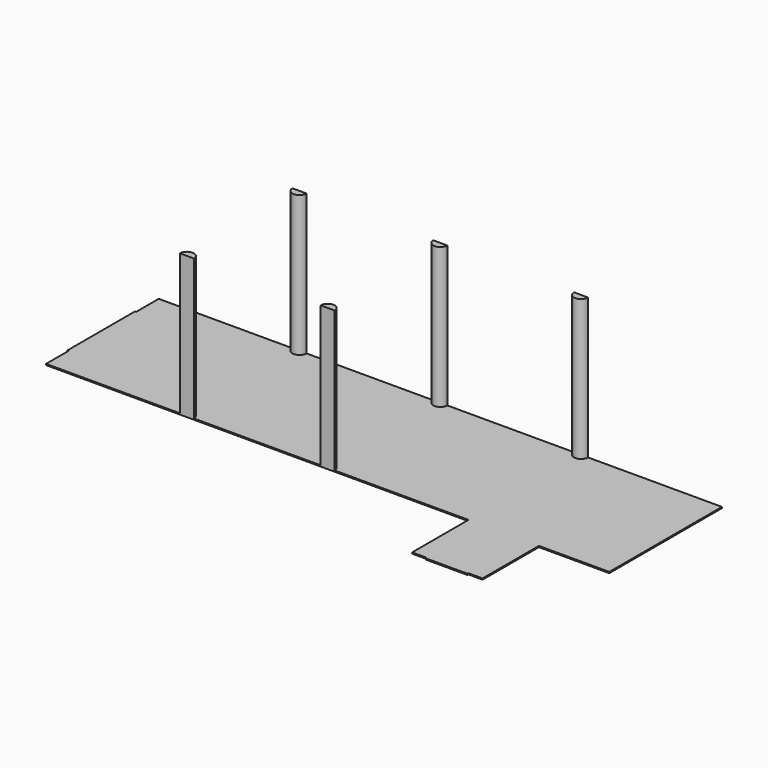
from build123d import *

# Parameters (mm, degrees)
F1_DEPTH = 25.4
F2_DEPTH = 3048
F3_W     = 914.4
F3_H     = 25.4
F4_DEPTH = 25.4
F5_W     = 1828.8
F5_H     = 25.4
F6_DEPTH = 25.4


with BuildPart() as f1:
    # F0 (on Top) → F1 (new body)
    with BuildSketch(Plane.XY):
        with BuildLine():
            Line((2895.6, 0), (0, 0))
            Line((0, 0), (0, -3048))
            Line((0, -3048), (2895.6, -3048))
            ThreePointArc((2895.6, -3048), (3048, -2895.6), (3200.4, -3048))
            Line((3200.4, -3048), (5943.6, -3048))
            ThreePointArc((5943.6, -3048), (6096, -2895.6), (6248.4, -3048))
            Line((6248.4, -3048), (9144, -3048))
            Line((9144, -3048), (9144, -4572))
            Line((9144, -4572), (10668, -4572))
            Line((10668, -4572), (10668, -3048))
            Line((10668, -3048), (12192, -3048))
            Line((12192, -3048), (12192, 0))
            Line((12192, 0), (9296.4, 0))
            ThreePointArc((9296.4, 0), (9144, -152.4), (8991.6, 0))
            Line((8991.6, 0), (6248.4, 0))
            ThreePointArc((6248.4, 0), (6096, -152.4), (5943.6, 0))
            Line((5943.6, 0), (3200.4, 0))
            ThreePointArc((3200.4, 0), (3048, -152.4), (2895.6, 0))
        make_face()
        with BuildLine():
            Line((3200.4, 0), (2895.6, 0))
            ThreePointArc((2895.6, 0), (3048, -152.4), (3200.4, 0))
        make_face()
        with BuildLine():
            ThreePointArc((3200.4, -3048), (3048, -2895.6), (2895.6, -3048))
            Line((2895.6, -3048), (3200.4, -3048))
        make_face()
        with BuildLine():
            Line((6248.4, 0), (5943.6, 0))
            ThreePointArc((5943.6, 0), (6096, -152.4), (6248.4, 0))
        make_face()
        with BuildLine():
            ThreePointArc((6248.4, -3048), (6096, -2895.6), (5943.6, -3048))
            Line((5943.6, -3048), (6248.4, -3048))
        make_face()
        with BuildLine():
            Line((9296.4, 0), (8991.6, 0))
            ThreePointArc((8991.6, 0), (9144, -152.4), (9296.4, 0))
        make_face()
    extrude(amount=-F1_DEPTH)

    # F0 (on Top) → F2 (join)
    with BuildSketch(Plane.XY):
        with BuildLine():
            Line((3200.4, 0), (2895.6, 0))
            ThreePointArc((2895.6, 0), (3048, -152.4), (3200.4, 0))
        make_face()
        with BuildLine():
            Line((6248.4, 0), (5943.6, 0))
            ThreePointArc((5943.6, 0), (6096, -152.4), (6248.4, 0))
        make_face()
        with BuildLine():
            ThreePointArc((3200.4, -3048), (3048, -2895.6), (2895.6, -3048))
            Line((2895.6, -3048), (3200.4, -3048))
        make_face()
        with BuildLine():
            ThreePointArc((6248.4, -3048), (6096, -2895.6), (5943.6, -3048))
            Line((5943.6, -3048), (6248.4, -3048))
        make_face()
        with BuildLine():
            Line((9296.4, 0), (8991.6, 0))
            ThreePointArc((8991.6, 0), (9144, -152.4), (9296.4, 0))
        make_face()
    extrude(amount=F2_DEPTH)

    # F3 (on face) → F4 (join)
    with BuildSketch(Plane.XZ.offset(4572)):
        with Locations((9906, -12.7)):
            Rectangle(F3_W, F3_H)
    extrude(amount=F4_DEPTH)

    # F5 (on face) → F6 (join)
    with BuildSketch(Plane(origin=(0, 0, 0), x_dir=(0, -1, 0), z_dir=(-1, 0, 0))):
        with Locations((1524, -12.7)):
            Rectangle(F5_W, F5_H)
    extrude(amount=F6_DEPTH)


solid = f1.part
